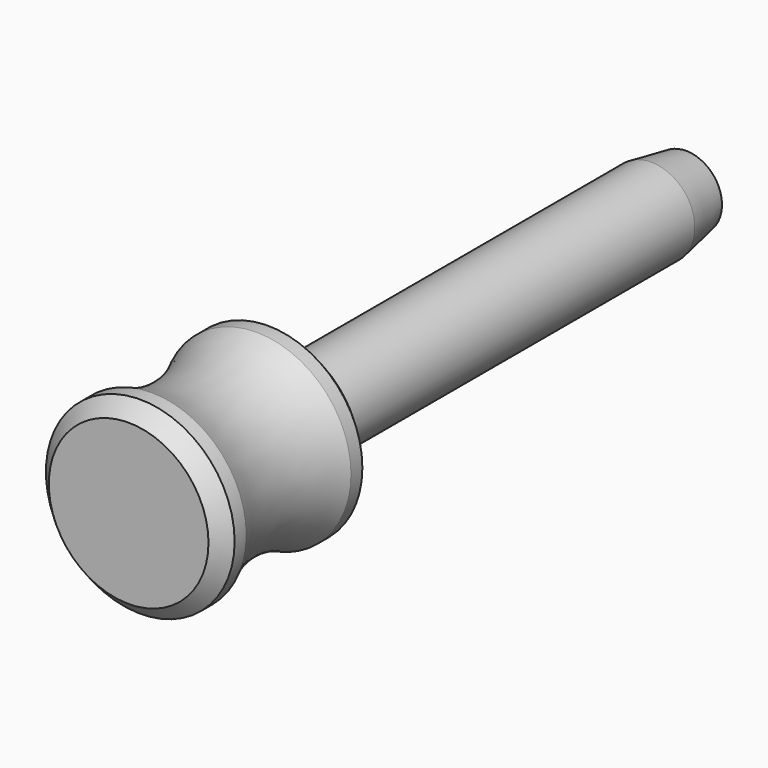
from build123d import *

# Parameters (mm, degrees)
F0_R     = 6.5
F1_DEPTH = 13
F2_R     = 3
F3_DEPTH = 35
F4_SIZE2 = 0.528981
F4_SIZE  = 3
F5_SIZE  = 1


with BuildPart() as f1:
    # F0 (on Front) → F1 (new body)
    with BuildSketch(Plane.XZ):
        Circle(F0_R)
    extrude(amount=-F1_DEPTH)

    # F2 (on face) → F3 (join)
    with BuildSketch(Plane(origin=(0, 13, 0), x_dir=(-1, 0, 0), z_dir=(0, 1, 0))):
        Circle(F2_R)
    extrude(amount=F3_DEPTH)

    # F4
    f4_edges = [f1.edges().sort_by_distance(p)[0] for p in [
        (3, 48, 0),
    ]]
    chamfer(f4_edges, length=F4_SIZE, length2=F4_SIZE2)

    # F5
    f5_edges = [f1.edges().sort_by_distance(p)[0] for p in [
        (-6.5, 13, 0),
        (-6.5, 0, 0),
    ]]
    chamfer(f5_edges, length=F5_SIZE)

    # F6 (on Right) → F7 (revolve, cut)
    with BuildSketch(Plane.YZ):
        with BuildLine():
            Line((12, 7.074941), (1, 7.082712))
            ThreePointArc((1, 7.082712), (6.498825, 5.41508), (12, 7.074941))
        make_face()
    revolve(axis=Axis((0, 13, 0), (0, -1, 0)), mode=Mode.SUBTRACT)


solid = f1.part
